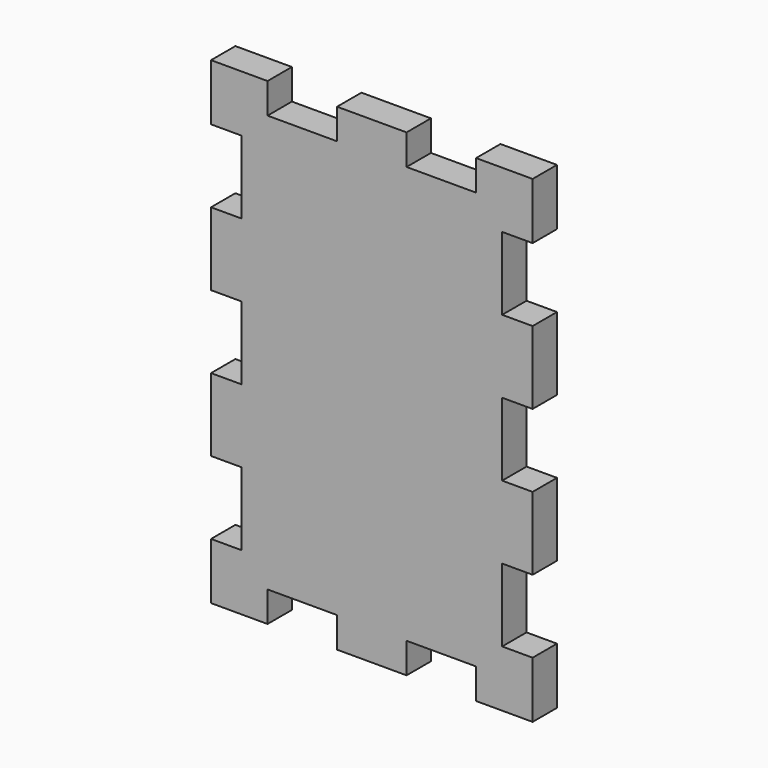
from build123d import *

# Parameters (mm, degrees)
F1_DEPTH = 5.842


with BuildPart() as f1:
    # F0 (on Front) → F1 (new body)
    with BuildSketch(Plane.XZ):
        Polygon((-20, -45.842), (-20, -40), (-6.666667, -40), (-6.666667, -45.842), (6.666667, -45.842), (6.666667, -40), (20, -40), (20, -45.842), (30.842, -45.842), (30.842, -35), (25, -35), (25, -21), (30.842, -21), (30.842, -7), (25, -7), (25, 7), (30.842, 7), (30.842, 21), (25, 21), (25, 35), (30.842, 35), (30.842, 45.842), (20, 45.842), (20, 40), (6.666667, 40), (6.666667, 45.842), (-6.666667, 45.842), (-6.666667, 40), (-20, 40), (-20, 45.842), (-30.842, 45.842), (-30.842, 35), (-25, 35), (-25, 21), (-30.842, 21), (-30.842, 7), (-25, 7), (-25, -7), (-30.842, -7), (-30.842, -21), (-25, -21), (-25, -35), (-30.842, -35), (-30.842, -45.842), align=None)
    extrude(amount=F1_DEPTH)


solid = f1.part
